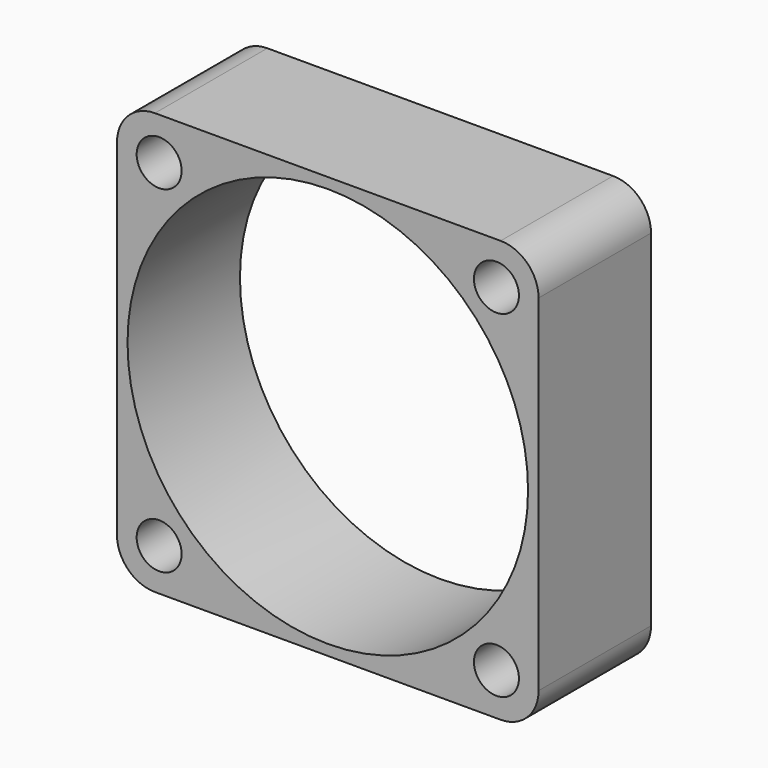
from build123d import *

# Parameters (mm, degrees)
F0_R     = 1.6
F0_R_2   = 14.25
F1_DEPTH = 10


with BuildPart() as f1:
    # F0 (on Front) → F1 (new body)
    with BuildSketch(Plane.XZ):
        with BuildLine():
            Line((12.3, 15), (0, 15))
            Line((0, 15), (-12.3, 15))
            ThreePointArc((-12.3, 15), (-14.209188, 14.209188), (-15, 12.3))
            Line((-15, 12.3), (-15, 0))
            Line((-15, 0), (-15, -12.3))
            ThreePointArc((-15, -12.3), (-14.209188, -14.209188), (-12.3, -15))
            Line((-12.3, -15), (0, -15))
            Line((0, -15), (12.3, -15))
            ThreePointArc((12.3, -15), (14.209188, -14.209188), (15, -12.3))
            Line((15, -12.3), (15, 0))
            Line((15, 0), (15, 12.3))
            ThreePointArc((15, 12.3), (14.209188, 14.209188), (12.3, 15))
        make_face()
        with Locations((-12, -12)):
            Circle(F0_R, mode=Mode.SUBTRACT)
        with Locations((12, -12)):
            Circle(F0_R, mode=Mode.SUBTRACT)
        with Locations((-12, 12)):
            Circle(F0_R, mode=Mode.SUBTRACT)
        Circle(F0_R_2, mode=Mode.SUBTRACT)
        with Locations((12, 12)):
            Circle(F0_R, mode=Mode.SUBTRACT)
    extrude(amount=F1_DEPTH)


solid = f1.part
